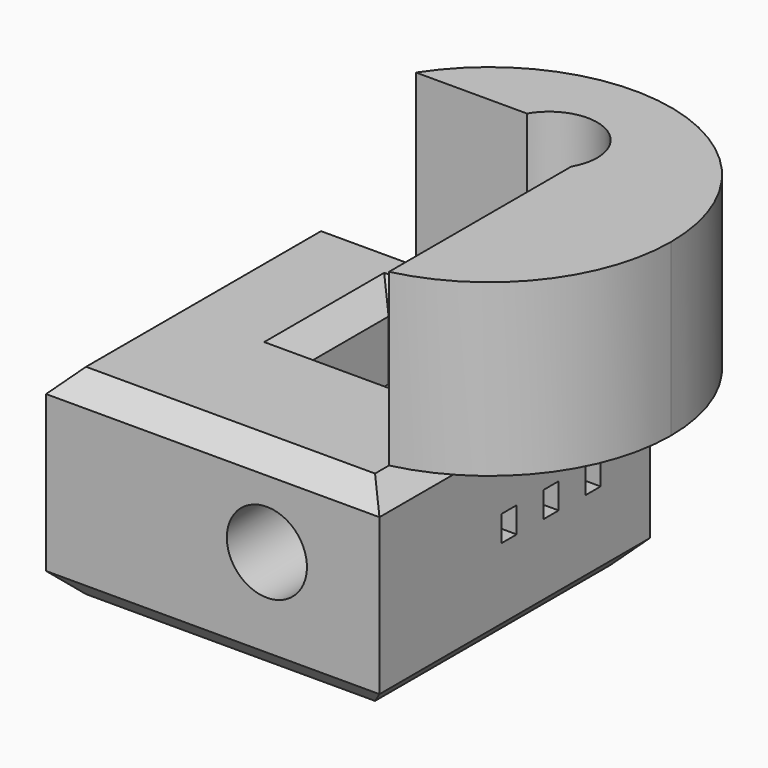
from build123d import *

# Parameters (mm, degrees)
F0_W     = 76.3280242682
F0_H     = 77.4106830359
F0_W_2   = 27.6080071926
F0_H_2   = 24.1795629263
F1_DEPTH = 45.8278357983
F2_SIZE  = 5.08
F3_R     = 9.1693528208
F4_DEPTH = 77.4106830359
F5_W     = 4.3538063765
F5_H     = 5.8968309313
F6_DEPTH = 76.3290242682
F8_DEPTH = 39.0382464975


with BuildPart() as f1:
    # F0 (on Top) → F1 (new body)
    with BuildSketch(Plane.XY):
        with Locations((38.1640121341, 38.7053415179)):
            Rectangle(F0_W, F0_H)
        with Locations((42.8555756807, 49.6222302318)):
            Rectangle(F0_W_2, F0_H_2, mode=Mode.SUBTRACT)
    extrude(amount=F1_DEPTH)

    # F2
    f2_edges = [f1.edges().sort_by_distance(p)[0] for p in [
        (0, 38.705342, 45.827836),
        (38.164012, 0, 45.827836),
        (76.328024, 38.705342, 45.827836),
        (38.164012, 77.410683, 45.827836),
        (42.855576, 37.532449, 45.827836),
        (29.051572, 49.62223, 45.827836),
        (42.855576, 61.712012, 45.827836),
        (56.659579, 49.62223, 45.827836),
        (0, 38.705342, 0),
        (38.164012, 0, 0),
        (76.328024, 38.705342, 0),
        (38.164012, 77.410683, 0),
        (42.855576, 37.532449, 0),
        (29.051572, 49.62223, 0),
        (42.855576, 61.712012, 0),
        (56.659579, 49.62223, 0),
    ]]
    chamfer(f2_edges, length=F2_SIZE)

    # F3 (on face) → F4 (cut, through all)
    with BuildSketch(Plane(origin=(0, 77.4106830359, 0), x_dir=(-1, 0, 0), z_dir=(0, 1, 0))):
        with Locations((-50.5527034402, 25.2946168184)):
            Circle(F3_R)
    extrude(amount=-F4_DEPTH, mode=Mode.SUBTRACT)

    # F5 (on face) → F6 (cut, through all)
    with BuildSketch(Plane(origin=(0, 0, 0), x_dir=(0, -1, 0), z_dir=(-1, 0, 0))):
        with Locations((-61.1162558198, 24.1615613922)):
            Rectangle(F5_W, F5_H)
        with Locations((-49.1082109511, 24.2099286988)):
            Rectangle(F5_W, F5_H)
        with Locations((-37.1001660824, 24.2582960054)):
            Rectangle(F5_W, F5_H)
    extrude(amount=-F6_DEPTH, mode=Mode.SUBTRACT)


with BuildPart() as f8:
    # F7 (on face) → F8 (new body)
    with BuildSketch(Plane.XY.offset(45.8278357983)):
        with BuildLine():
            ThreePointArc((71.2480242682, 9.0679696025), (94.3825239668, 23.7475950977), (103.3936136715, 49.6222302318))
            ThreePointArc((103.3936136715, 49.6222302318), (73.5825647814, 89.5572058256), (26.8198892357, 72.3306830358))
            Line((26.8198892357, 72.3306830359), (52.2311342859, 72.3306830359))
            ThreePointArc((52.2311342859, 72.3306830359), (61.739579277, 77.7959839946), (71.2480242682, 72.3306830359))
            ThreePointArc((71.2480242682, 72.3306830359), (72.363092624, 69.6605253411), (72.7435515767, 66.7920116949))
            ThreePointArc((72.7435515767, 66.7920116949), (72.363092624, 63.9234980487), (71.2480242682, 61.253340354))
            Line((71.2480242682, 61.253340354), (71.2480242682, 9.0679696025))
        make_face()
    extrude(amount=F8_DEPTH)


solid = Compound([f1.part, f8.part])
